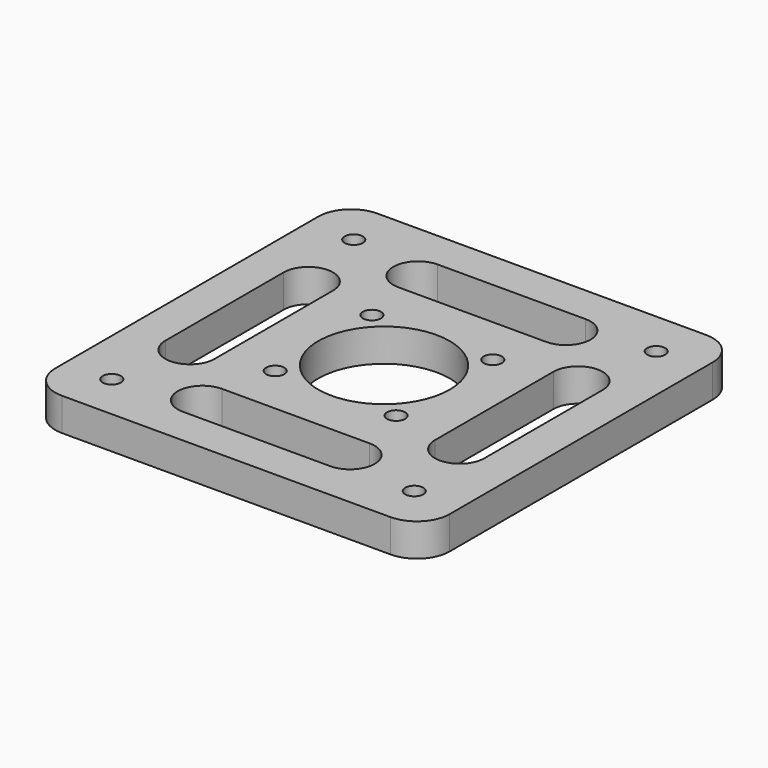
from build123d import *

# Parameters (mm, degrees)
F0_R     = 2.75
F0_R_2   = 20
F1_DEPTH = 10


with BuildPart() as f1:
    # F0 (on Top) → F1 (new body)
    with BuildSketch(Plane.XY):
        with BuildLine():
            Line((-50, -60), (50, -60))
            ThreePointArc((50, -60), (57.071068, -57.071068), (60, -50))
            Line((60, -50), (60, 50))
            ThreePointArc((60, 50), (57.071068, 57.071068), (50, 60))
            Line((50, 60), (-50, 60))
            ThreePointArc((-50, 60), (-57.071068, 57.071068), (-60, 50))
            Line((-60, 50), (-60, -50))
            ThreePointArc((-60, -50), (-57.071068, -57.071068), (-50, -60))
        make_face()
        with Locations((-46, -46)):
            Circle(F0_R, mode=Mode.SUBTRACT)
        with BuildLine():
            Line((-33.480436, 22.550578), (-33.480436, -22.449422))
            ThreePointArc((-33.480436, -22.449422), (-40.929516, -30.050748), (-48.480436, -22.550578))
            Line((-48.480436, -22.550578), (-48.480436, 22.449422))
            ThreePointArc((-48.480436, 22.449422), (-41.030674, 29.949593), (-33.480436, 22.550578))
        make_face(mode=Mode.SUBTRACT)
        with Locations((-18.384776, -18.384776)):
            Circle(F0_R, mode=Mode.SUBTRACT)
        with BuildLine():
            Line((-22.550578, -33.480436), (22.449422, -33.480436))
            ThreePointArc((22.449422, -33.480436), (29.949593, -40.930199), (22.550578, -48.480436))
            Line((22.550578, -48.480436), (-22.449422, -48.480436))
            ThreePointArc((-22.449422, -48.480436), (-29.949593, -41.030674), (-22.550578, -33.480436))
        make_face(mode=Mode.SUBTRACT)
        with Locations((46, -46)):
            Circle(F0_R, mode=Mode.SUBTRACT)
        with Locations((18.384776, -18.384776)):
            Circle(F0_R, mode=Mode.SUBTRACT)
        with Locations((-18.384776, 18.384776)):
            Circle(F0_R, mode=Mode.SUBTRACT)
        with Locations((-46, 46)):
            Circle(F0_R, mode=Mode.SUBTRACT)
        Circle(F0_R_2, mode=Mode.SUBTRACT)
        with Locations((18.384776, 18.384776)):
            Circle(F0_R, mode=Mode.SUBTRACT)
        with BuildLine():
            Line((48.480436, 22.449422), (48.480436, -22.550578))
            ThreePointArc((48.480436, -22.550578), (40.930199, -29.949593), (33.480436, -22.449422))
            Line((33.480436, -22.449422), (33.480436, 22.550578))
            ThreePointArc((33.480436, 22.550578), (41.031356, 30.050748), (48.480436, 22.449422))
        make_face(mode=Mode.SUBTRACT)
        with BuildLine():
            ThreePointArc((22.550578, 48.480436), (30.050748, 40.929516), (22.449422, 33.480436))
            Line((22.449422, 33.480436), (-22.550578, 33.480436))
            ThreePointArc((-22.550578, 33.480436), (-29.949593, 41.030674), (-22.449422, 48.480436))
            Line((-22.449422, 48.480436), (22.550578, 48.480436))
        make_face(mode=Mode.SUBTRACT)
        with Locations((46, 46)):
            Circle(F0_R, mode=Mode.SUBTRACT)
    extrude(amount=F1_DEPTH)


solid = f1.part
